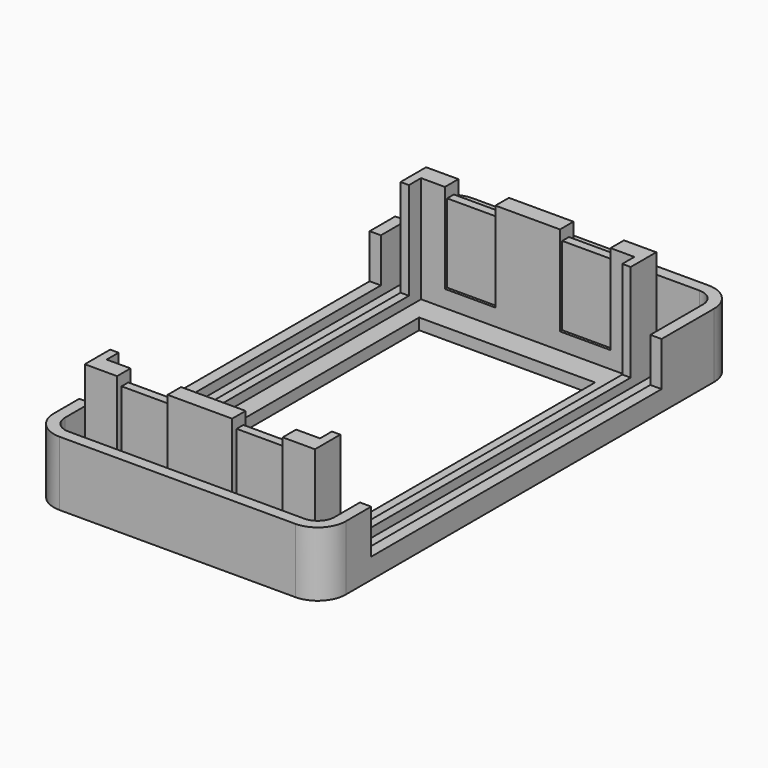
from build123d import *

# Parameters (mm, degrees)
PAD_DEPTH       = 11.5
POCKET_DEPTH    = 9.5
PAD001_DEPTH    = 19
SKETCH003_W     = 5.8
SKETCH003_H     = 6.7
POCKET001_DEPTH = 6
SKETCH004_W     = 9
SKETCH004_H     = 76
POCKET002_DEPTH = 2
SKETCH005_W     = 9
SKETCH005_H     = 71
SKETCH005_H_2   = 1
POCKET003_DEPTH = 14
SKETCH006_W     = 31.339315
SKETCH006_H     = 62.470386
POCKET004_DEPTH = 5
SKETCH007_W     = 64.656841
SKETCH007_H     = 18.636995
POCKET005_DEPTH = 75


with BuildPart() as part:
    # Sketch → Pad (new body)
    with BuildSketch(Plane.XY):
        with BuildLine():
            Line((0, 5), (0, 87))
            ThreePointArc((5, 92), (1.464466, 90.535534), (0, 87))
            Line((5, 92), (47, 92))
            ThreePointArc((52, 87), (50.535534, 90.535534), (47, 92))
            Line((52, 87), (52, 5))
            ThreePointArc((47, 0), (50.535534, 1.464466), (52, 5))
            Line((47, 0), (5, 0))
            ThreePointArc((0, 5), (1.464466, 1.464466), (5, 0))
        make_face()
    extrude(amount=PAD_DEPTH)

    # Sketch001 → Pocket (cut)
    with BuildSketch(Plane.XY.offset(11.5)):
        with BuildLine():
            Line((2, 5), (2, 80))
            Line((2, 80), (5.5, 80))
            Line((5.5, 80), (5.5, 90))
            Line((5.5, 90), (47, 90))
            ThreePointArc((50, 87), (49.12132, 89.12132), (47, 90))
            Line((50, 87), (50, 5))
            ThreePointArc((47, 2), (49.12132, 2.87868), (50, 5))
            Line((47, 2), (5, 2))
            ThreePointArc((2, 5), (2.87868, 2.87868), (5, 2))
        make_face()
    extrude(amount=-POCKET_DEPTH, mode=Mode.SUBTRACT)

    # Sketch002 → Pad001 (new body)
    with BuildSketch(Plane.XY.offset(2)):
        Polygon((5.5, 5), (26, 5), (46.5, 5), (46.5, 81), (5.5, 81), align=None)
        Polygon((7, 78), (45, 78), (45, 8), (26, 8), (7, 8), align=None, mode=Mode.SUBTRACT)
    extrude(amount=PAD001_DEPTH)

    # Sketch003 → Pocket001 (cut)
    with BuildSketch(Plane(origin=(0, 0, 0), x_dir=(0, -1, 0), z_dir=(-1, 0, 0))):
        with Locations((-83.9, 8.15)):
            Rectangle(SKETCH003_W, SKETCH003_H)
    extrude(amount=-POCKET001_DEPTH, mode=Mode.SUBTRACT)

    # Sketch004 → Pocket002 (cut)
    with BuildSketch(Plane.XY.offset(21)):
        with Locations((15.75, 43)):
            Rectangle(SKETCH004_W, SKETCH004_H)
        with Locations((36.25, 43)):
            Rectangle(SKETCH004_W, SKETCH004_H)
    extrude(amount=-POCKET002_DEPTH, mode=Mode.SUBTRACT)

    # Sketch005 → Pocket003 (cut)
    with BuildSketch(Plane.XY.offset(19)):
        with Locations((15.75, 43)):
            Rectangle(SKETCH005_W, SKETCH005_H)
        with Locations((36.25, 43)):
            Rectangle(SKETCH005_W, SKETCH005_H)
        with Locations((15.75, 80.5)):
            Rectangle(SKETCH005_W, SKETCH005_H_2)
        with Locations((36.25, 80.5)):
            Rectangle(SKETCH005_W, SKETCH005_H_2)
        with Locations((15.75, 5.5)):
            Rectangle(SKETCH005_W, SKETCH005_H_2)
        with Locations((36.25, 5.5)):
            Rectangle(SKETCH005_W, SKETCH005_H_2)
    extrude(amount=-POCKET003_DEPTH, mode=Mode.SUBTRACT)

    # Sketch006 → Pocket004 (cut)
    with BuildSketch(Plane.XY.offset(2)):
        with Locations((25.891194, 42.313818)):
            Rectangle(SKETCH006_W, SKETCH006_H)
    extrude(amount=-POCKET004_DEPTH, mode=Mode.SUBTRACT)

    # Sketch007 → Pocket005 (cut)
    with BuildSketch(Plane(origin=(0, 0, 0), x_dir=(0, -1, 0), z_dir=(-1, 0, 0))):
        with Locations((-42.974649, 12.963171)):
            Rectangle(SKETCH007_W, SKETCH007_H)
    extrude(amount=-POCKET005_DEPTH, mode=Mode.SUBTRACT)


solid = part.part
